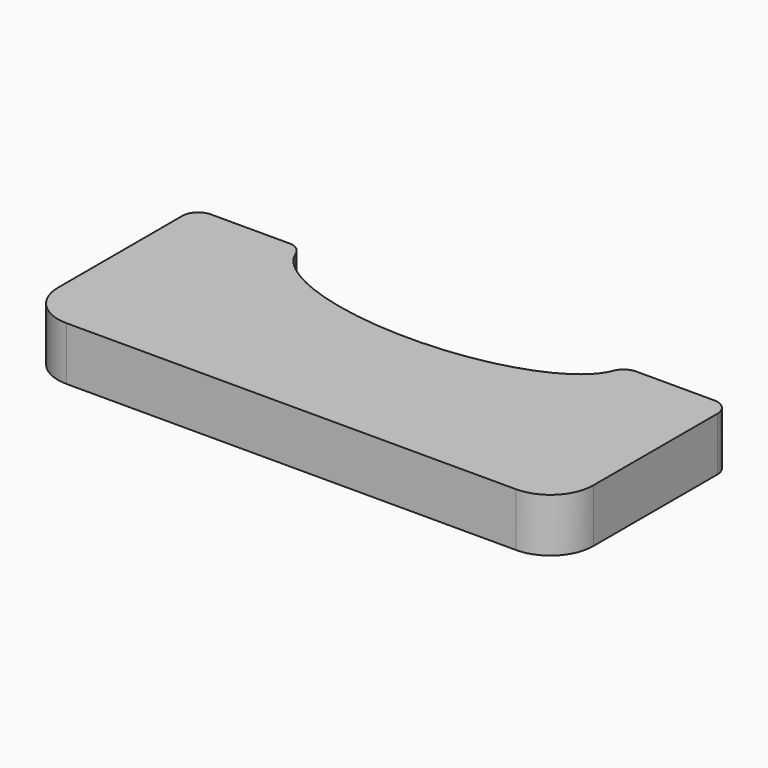
from build123d import *

# Parameters (mm, degrees)
F0_W     = 100
F0_H     = 40
F1_DEPTH = 10
F3_DEPTH = 10.001
F4_R     = 8
F5_R     = 3


with BuildPart() as f1:
    # F0 (on Top) → F1 (new body)
    with BuildSketch(Plane.XY):
        with Locations((13.2704079151, -66.9964028705)):
            Rectangle(F0_W, F0_H)
    extrude(amount=F1_DEPTH)

    # F2 (on face) → F3 (cut, through all)
    with BuildSketch(Plane.XY.offset(10)):
        with BuildLine():
            add(Edge.make_bspline(
                [(43.2704079151, -46.9964028705), (43.2704079151, -25.3457677759), (-1.7295920849, -36.1710853232), (-46.7295920849, -46.9964028705), (-1.7295920849, -57.8217204178), (43.2704079151, -68.6470379651), (43.2704079151, -46.9964028705)],
                knots=[0, 0, 0, 2.0943951024, 2.0943951024, 4.1887902048, 4.1887902048, 6.2831853072, 6.2831853072, 6.2831853072], degree=2, weights=[1, 0.5, 1, 0.5, 1, 0.5, 1]))
        make_face()
    extrude(amount=-F3_DEPTH, mode=Mode.SUBTRACT)

    # F4
    f4_edges = [f1.edges().sort_by_distance(p)[0] for p in [
        (-36.729592, -86.996403, 5),
        (63.270408, -86.996403, 5),
    ]]
    fillet(f4_edges, radius=F4_R)

    # F5 (call 1 of 4: OpenCascade refuses the feature's edges together)
    f5_edges = [f1.edges().sort_by_distance(p)[0] for p in [
        (63.270408, -46.996403, 5),
    ]]
    fillet(f5_edges, radius=F5_R)

    # F5#3 (call 2 of 4)
    f5_3_edges = [f1.edges().sort_by_distance(p)[0] for p in [
        (-16.729592, -46.996403, 5),
    ]]
    fillet(f5_3_edges, radius=F5_R)

    # F5#4 (call 3 of 4)
    f5_4_edges = [f1.edges().sort_by_distance(p)[0] for p in [
        (-36.729592, -46.996403, 5),
    ]]
    fillet(f5_4_edges, radius=F5_R)

    # F5#2 (call 4 of 4)
    f5_2_edges = [f1.edges().sort_by_distance(p)[0] for p in [
        (43.270408, -46.996403, 5),
    ]]
    fillet(f5_2_edges, radius=F5_R)


solid = f1.part
